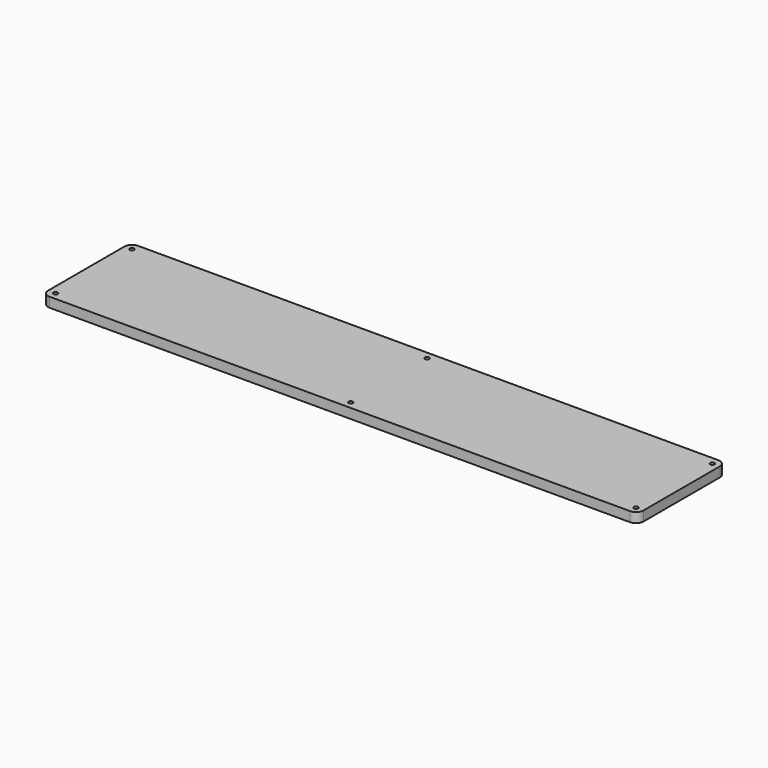
from build123d import *

# Parameters (mm, degrees)
CYLINDER013_R     = 1.1
CYLINDER013_DEPTH = 5
CYLINDER014_R     = 1.1
CYLINDER014_DEPTH = 5
CYLINDER015_R     = 1.1
CYLINDER015_DEPTH = 5
CYLINDER016_R     = 1.1
CYLINDER016_DEPTH = 5
CYLINDER017_R     = 1.1
CYLINDER017_DEPTH = 5
CYLINDER012_R     = 1.1
CYLINDER012_DEPTH = 5
BOX001_W          = 304.8
BOX001_H          = 56.5
BOX001_DEPTH      = 5
FILLET001_R       = 3.81


with BuildPart() as obj1:
    # Cylinder013 → Cylinder013 (new body)
    with BuildSketch(Plane(origin=(154.94, 167, 36.6), x_dir=(1, 0, 0), z_dir=(0, 0, 1))):
        Circle(CYLINDER013_R)
    extrude(amount=CYLINDER013_DEPTH)


with BuildPart() as obj2:
    # Cylinder014 → Cylinder014 (new body)
    with BuildSketch(Plane(origin=(300.99, 167, 36.6), x_dir=(1, 0, 0), z_dir=(0, 0, 1))):
        Circle(CYLINDER014_R)
    extrude(amount=CYLINDER014_DEPTH)


with BuildPart() as obj3:
    # Cylinder015 → Cylinder015 (new body)
    with BuildSketch(Plane(origin=(3.81, 118.11, 36.6), x_dir=(1, 0, 0), z_dir=(0, 0, 1))):
        Circle(CYLINDER015_R)
    extrude(amount=CYLINDER015_DEPTH)


with BuildPart() as obj4:
    # Cylinder016 → Cylinder016 (new body)
    with BuildSketch(Plane(origin=(154.94, 118.11, 36.6), x_dir=(1, 0, 0), z_dir=(0, 0, 1))):
        Circle(CYLINDER016_R)
    extrude(amount=CYLINDER016_DEPTH)


with BuildPart() as obj5:
    # Cylinder017 → Cylinder017 (new body)
    with BuildSketch(Plane(origin=(300.99, 118.11, 36.6), x_dir=(1, 0, 0), z_dir=(0, 0, 1))):
        Circle(CYLINDER017_R)
    extrude(amount=CYLINDER017_DEPTH)


with BuildPart() as fusion001:
    # Cylinder012 → Cylinder012 (new body)
    with BuildSketch(Plane(origin=(3.81, 167, 36.6), x_dir=(1, 0, 0), z_dir=(0, 0, 1))):
        Circle(CYLINDER012_R)
    extrude(amount=CYLINDER012_DEPTH)

    # Fusion001: union obj1, obj2, obj3, obj4, obj5
    add(obj1.part)
    add(obj2.part)
    add(obj3.part)
    add(obj4.part)
    add(obj5.part)


with BuildPart() as cut001:
    # Box001 → Box001 (new body)
    with BuildSketch(Plane(origin=(0, 114.31, 36.6), x_dir=(1, 0, 0), z_dir=(0, 0, 1))):
        with Locations((152.4, 28.25)):
            Rectangle(BOX001_W, BOX001_H)
    extrude(amount=BOX001_DEPTH)

    # Fillet001
    fillet001_edges = [cut001.edges().sort_by_distance(p)[0] for p in [
        (0, 114.31, 39.1),
        (0, 170.81, 39.1),
        (304.8, 114.31, 39.1),
        (304.8, 170.81, 39.1),
    ]]
    fillet(fillet001_edges, radius=FILLET001_R)

    # Cut001: cut Fusion001
    add(fusion001.part, mode=Mode.SUBTRACT)


solid = cut001.part
